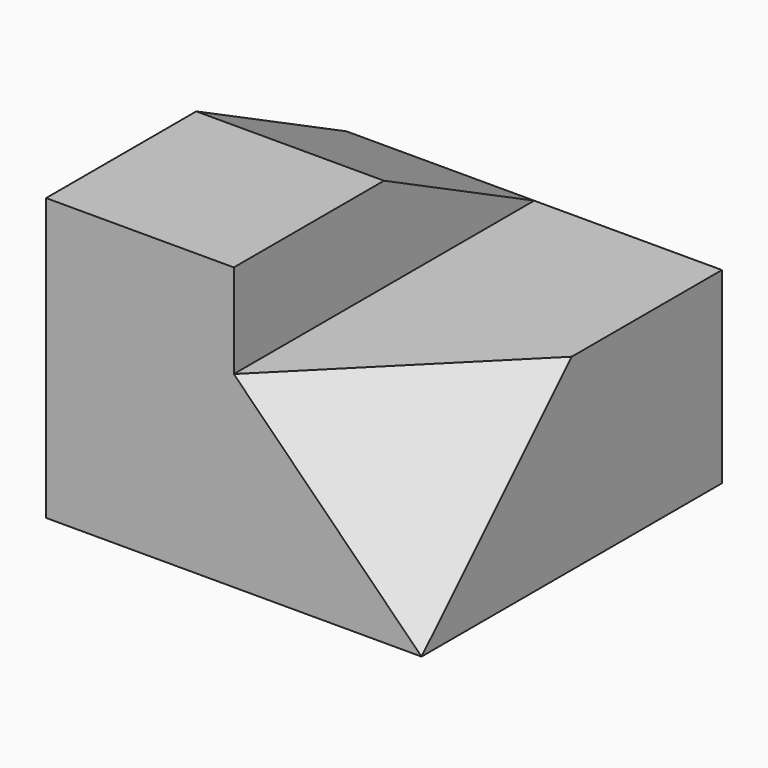
from build123d import *

# Parameters (mm, degrees)
F0_W     = 254
F0_H     = 127
F1_DEPTH = 254
F2_DEPTH = 127
F6_DEPTH = 109.9862262806


with BuildPart() as f1:
    # F0 (on Right) → F1 (new body)
    with BuildSketch(Plane.YZ):
        with Locations((127, 63.5)):
            Rectangle(F0_W, F0_H)
        with Locations((127, 63.5)):
            Rectangle(F0_W, F0_H)
    extrude(amount=F1_DEPTH)

    # F0 (on Right) → F2 (join)
    with BuildSketch(Plane.YZ):
        Polygon((0, 190.5), (0, 127), (254, 127), (127, 190.5), align=None)
    extrude(amount=F2_DEPTH)

    # F5 (on 3pt) → F6 (cut, through all)
    with BuildSketch(Plane(origin=(84.6666666667, -84.6666666667, 84.6666666667), x_dir=(0.8164965809, 0.4082482905, -0.4082482905), z_dir=(0.5773502692, -0.5773502692, 0.5773502692))):
        Polygon((207.3901315556, 0), (207.3901315556, 179.6051224214), (51.8475328889, 89.8025612107), align=None)
    extrude(amount=F6_DEPTH, mode=Mode.SUBTRACT)


solid = f1.part
